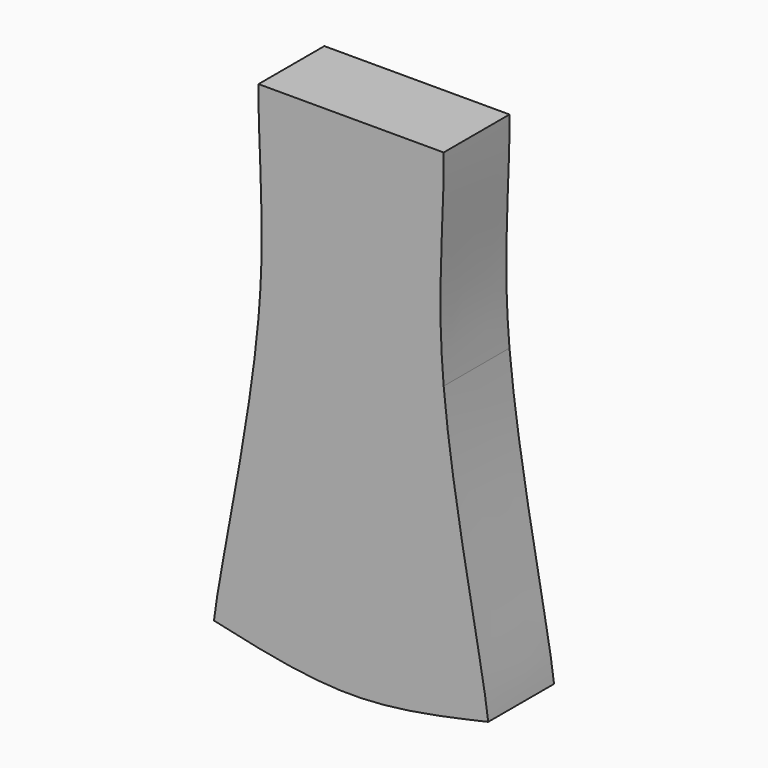
from build123d import *

# Parameters (mm, degrees)
F1_DEPTH = 1.2


with BuildPart() as f1:
    # F0 (on Front) → F1 (new body)
    with BuildSketch(Plane.XZ):
        with BuildLine():
            Line((1.35, 0), (0, 0))
            add(Edge.make_bspline(
                [(0, 0), (-0.0118428651, -0.8699247142), (0.1112151057, -1.7447327255), (0, -3)],
                knots=[0, 0, 0, 0, 0.4011955023, 0.4011955023, 0.4011955023, 0.4011955023], degree=3))
            Line((0, -3), (1.35, -3))
            Line((1.35, -3), (1.35, 0))
        make_face()
        with BuildLine():
            Line((2.7, 0), (1.35, 0))
            Line((1.35, 0), (1.35, -3))
            Line((1.35, -3), (2.7, -3))
            add(Edge.make_bspline(
                [(2.7, 0), (2.7118428651, -0.8699247142), (2.5887848943, -1.7447327255), (2.7, -3)],
                knots=[0, 0, 0, 0, 0.4011955023, 0.4011955023, 0.4011955023, 0.4011955023], degree=3))
        make_face()
        with BuildLine():
            Line((1.35, -3), (0, -3))
            add(Edge.make_bspline(
                [(0, -3), (-0.1308248434, -4.4765992759), (-0.5858215146, -6.4796533053), (-0.65, -7.1)],
                knots=[0.4011955023, 0.4011955023, 0.4011955023, 0.4011955023, 0.8731308426, 0.8731308426, 0.8731308426, 0.8731308426], degree=3))
            add(Edge.make_bspline(
                [(-0.65, -7.1), (0.0166666667, -7.25), (1.35, -7.55), (2.6833333333, -7.25), (3.35, -7.1)],
                knots=[0, 0, 0, 0, 0.5, 1, 1, 1, 1], degree=3))
            add(Edge.make_bspline(
                [(2.7, -3), (2.8308248434, -4.4765992759), (3.2858215146, -6.4796533053), (3.35, -7.1)],
                knots=[0.4011955023, 0.4011955023, 0.4011955023, 0.4011955023, 0.8731308426, 0.8731308426, 0.8731308426, 0.8731308426], degree=3))
            Line((2.7, -3), (1.35, -3))
        make_face()
    extrude(amount=F1_DEPTH)


solid = f1.part
